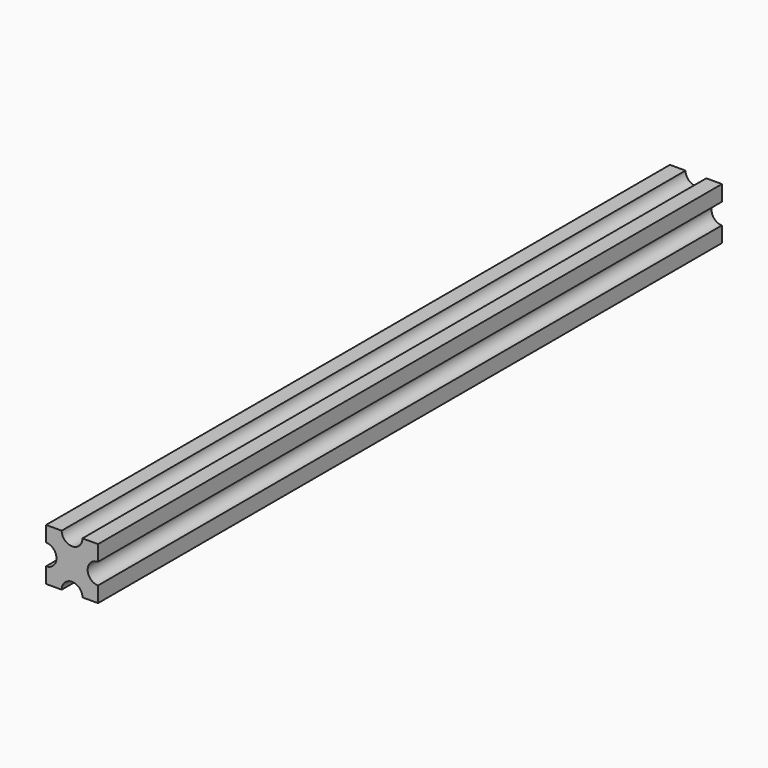
from build123d import *

# Parameters (mm, degrees)
F1_DEPTH = 600


with BuildPart() as f1:
    # F0 (on Front) → F1 (new body)
    with BuildSketch(Plane.XZ):
        with BuildLine():
            Line((8, -20), (20, -20))
            Line((20, -20), (20, -8))
            ThreePointArc((20, -8), (12, 0), (20, 8))
            Line((20, 8), (20, 20))
            Line((20, 20), (8, 20))
            ThreePointArc((8, 20), (0, 12), (-8, 20))
            Line((-8, 20), (-20, 20))
            Line((-20, 20), (-20, 8))
            ThreePointArc((-20, 8), (-14.343146, 5.656854), (-12, 0))
            ThreePointArc((-12, 0), (-14.343146, -5.656854), (-20, -8))
            Line((-20, -8), (-20, -20))
            Line((-20, -20), (-8, -20))
            ThreePointArc((-8, -20), (0, -12), (8, -20))
        make_face()
    extrude(amount=F1_DEPTH)


solid = f1.part
